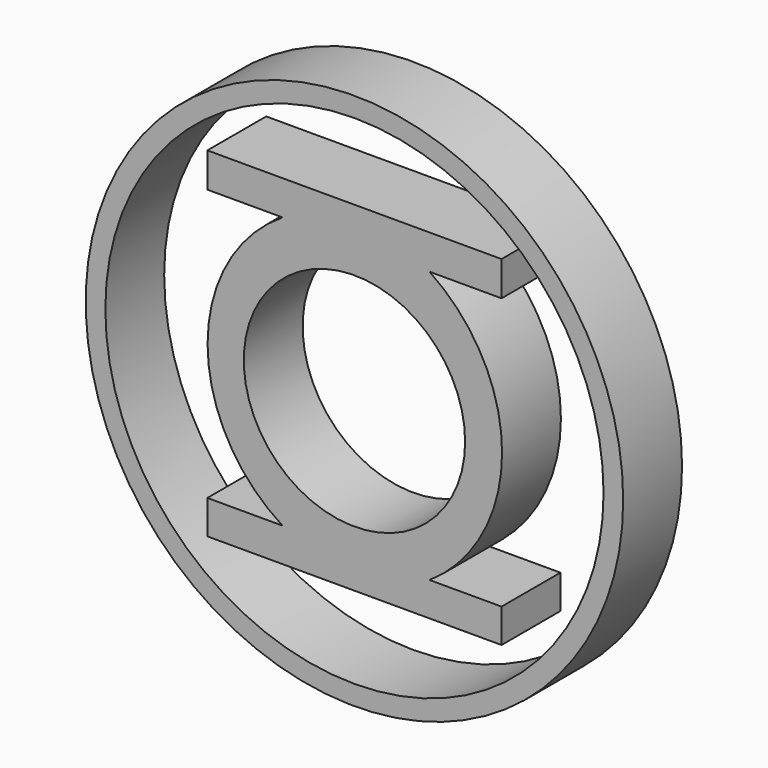
from build123d import *

# Parameters (mm, degrees)
F0_R     = 92.815736
F0_R_2   = 86.031156
F0_R_3   = 38.21813
F1_DEPTH = 25.4


with BuildPart() as f1:
    # F0 (on Front) → F1 (new body)
    with BuildSketch(Plane.XZ):
        Circle(F0_R)
        Circle(F0_R_2, mode=Mode.SUBTRACT)
        with BuildLine():
            Line((50.8, 59.658739), (-50.8, 59.658739))
            Line((-50.8, 59.658739), (-50.8, 47.720739))
            Line((-50.8, 47.720739), (-24.852002, 47.720739))
            ThreePointArc((-24.852002, 47.720739), (-50.724671, 0.857739), (-24.852002, -46.005261))
            Line((-24.852002, -46.005261), (-50.8, -46.005261))
            Line((-50.8, -46.005261), (-50.8, -57.68926))
            Line((-50.8, -57.68926), (50.8, -57.68926))
            Line((50.8, -57.68926), (50.8, -46.005261))
            Line((50.8, -46.005261), (25.947996, -46.005261))
            ThreePointArc((25.947996, -46.005261), (50.98282, 0.857739), (25.947996, 47.720739))
            Line((25.947996, 47.720739), (50.8, 47.720739))
            Line((50.8, 47.720739), (50.8, 59.658739))
        make_face()
        Circle(F0_R_3, mode=Mode.SUBTRACT)
    extrude(amount=F1_DEPTH)


solid = f1.part
